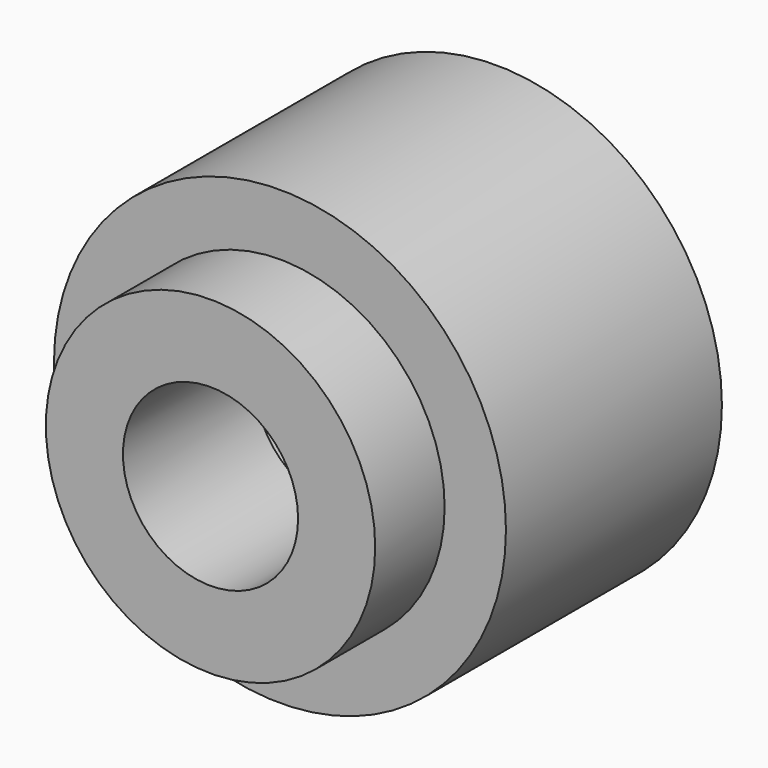
from build123d import *

# Parameters (mm, degrees)
F0_R     = 23.4400047289
F1_DEPTH = 28
F3_R     = 17.0810137282
F4_DEPTH = 9
F5_T     = -8
F6_D     = 10


with BuildPart() as f1:
    # F0 (on Front) → F1 (new body)
    with BuildSketch(Plane.XZ):
        with Locations((0, 23.6968044192)):
            Circle(F0_R)
    extrude(amount=F1_DEPTH)


with BuildPart() as f1_1:
    # F2: moved
    add(f1.part.moved(Location((0, 25.654, 0))))

    # F3 (on face) → F4 (join)
    with BuildSketch(Plane.XZ.offset(2.346)):
        with Locations((0, 23.6968044192)):
            Circle(F3_R)
    extrude(amount=F4_DEPTH)

    # F5
    f5_openings = [f1_1.faces().sort_by_distance(p)[0] for p in [
        (0, -11.346, 23.696804),
    ]]
    offset(amount=F5_T, openings=f5_openings, kind=Kind.INTERSECTION)

    # F6 (through all)
    with Locations(Plane.XZ):
        with Locations((0, 23.6968044192)):
            Hole(F6_D / 2)


solid = f1_1.part
